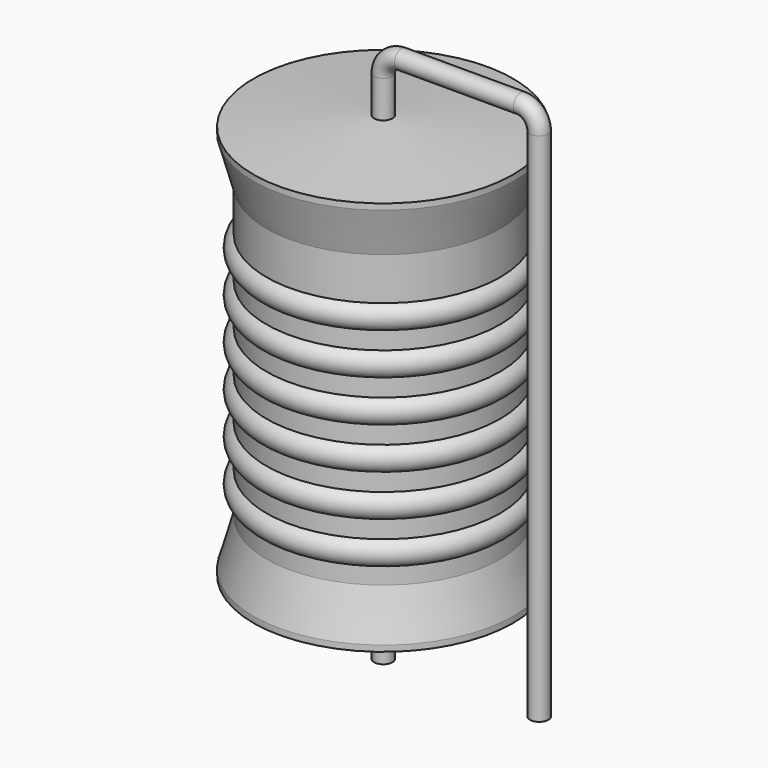
from build123d import *

# Parameters (mm, degrees)
SKETCH_R = 0.45


with BuildPart() as sweep_body:
    # Sweep: sweep along a path in Sketch001
    with BuildLine(Plane.XZ) as sweep_path:
        Line((0, -3), (0, 22.22))
        ThreePointArc((0, 22.22), (0.263601, 22.856393), (0.899992, 23.12))
        Line((0.899992, 23.12), (6.72, 23.12))
        ThreePointArc((6.72, 23.12), (7.356396, 22.856396), (7.62, 22.22))
        Line((7.62, 22.22), (7.62, -3))
    # Sketch → Sweep (sweep)
    with BuildSketch(Plane.XY.offset(-2)):
        Circle(SKETCH_R)
    sweep(path=sweep_path.line)


with BuildPart() as revolution:
    # Sketch002 → Revolution (revolve)
    with BuildSketch(Plane.XZ):
        Polygon((0, 0.1), (0, 20.42), (0.3375, 20.42), (6.35, 19.912), (6.35, 19.6195), (5.715, 17.372), (5.715, 3.148), (6.35, 0.9005), (6.35, 0.608), (0.3375, 0.1), align=None)
    revolve(axis=Axis((0, 0, 0), (0, 0, 1)))


with BuildPart() as revolution001:
    # Sketch003 → Revolution001 (revolve)
    with BuildSketch(Plane.XZ):
        with BuildLine():
            Line((5.08, 16.102), (5.08, 3.148))
            Line((5.08, 3.148), (5.461, 3.148))
            Line((5.461, 3.148), (5.461, 3.91))
            ThreePointArc((5.461, 3.91), (6.096, 4.545), (5.461, 5.18))
            Line((5.461, 5.18), (5.461, 5.942))
            ThreePointArc((5.461, 5.942), (6.096, 6.577), (5.461, 7.212))
            Line((5.461, 7.212), (5.461, 7.974))
            ThreePointArc((5.461, 7.974), (6.096, 8.609), (5.461, 9.244))
            Line((5.461, 9.244), (5.461, 10.006))
            ThreePointArc((5.461, 10.006), (6.096, 10.641), (5.461, 11.276))
            Line((5.461, 11.276), (5.461, 12.038))
            ThreePointArc((5.461, 12.038), (6.096, 12.673), (5.461, 13.308))
            Line((5.461, 13.308), (5.461, 14.07))
            ThreePointArc((5.461, 14.07), (6.096, 14.705), (5.461, 15.34))
            Line((5.461, 16.102), (5.461, 15.34))
            Line((5.08, 16.102), (5.461, 16.102))
        make_face()
    revolve(axis=Axis((0, 0, 0), (0, 0, 1)))


solid = Compound([sweep_body.part, revolution.part, revolution001.part])
